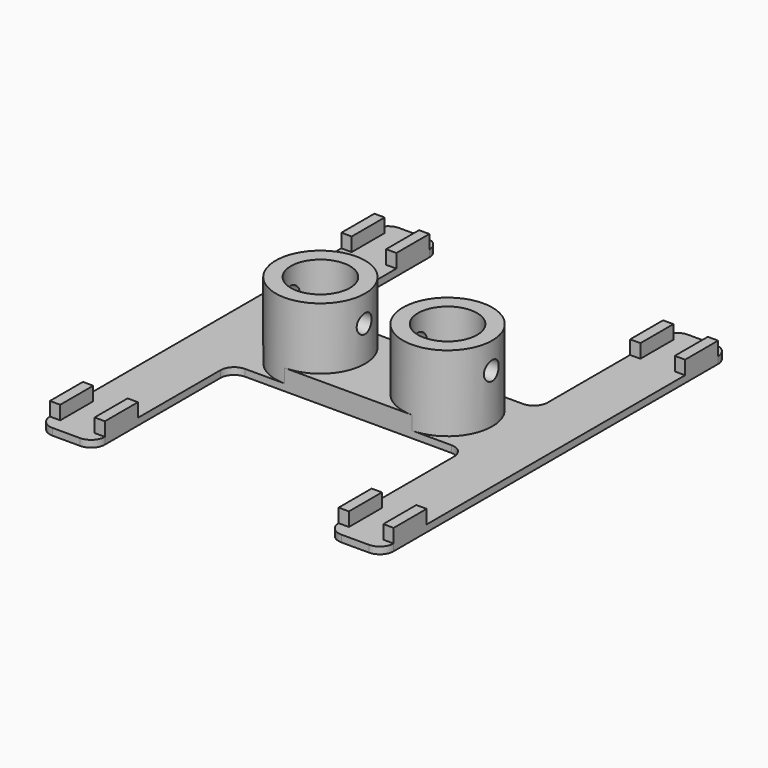
from build123d import *

# Parameters (mm, degrees)
F0_W      = 8
F0_H      = 25
F1_DEPTH  = 1
F2_R      = 6.5
F2_R_2    = 4.3
F3_DEPTH  = 11
F4_R      = 4
F5_R      = 1.35
F6_DEPTH  = 50.001
F7_R      = 2
F8_W      = 1.5
F8_H      = 6
F9_DEPTH  = 2
F11_DEPTH = 2


with BuildPart() as f1:
    # F0 (on Top) → F1 (new body)
    with BuildSketch(Plane.XY):
        with Locations((-4, -12.5)):
            Rectangle(F0_W, F0_H)
        Polygon((-8, 0), (0, 0), (0, 13), (-8, 13), (-42, 13), (-50, 13), (-50, 0), (-42, 0), align=None)
        with Locations((-4, 25.5)):
            Rectangle(F0_W, F0_H)
        with Locations((-46, -12.5)):
            Rectangle(F0_W, F0_H)
        with Locations((-46, 25.5)):
            Rectangle(F0_W, F0_H)
    extrude(amount=F1_DEPTH)

    # F2 (on face) → F3 (join)
    with BuildSketch(Plane.XY.offset(1)):
        with Locations((-34.25, 6.5)):
            Circle(F2_R)
        with Locations((-34.25, 6.5)):
            Circle(F2_R_2, mode=Mode.SUBTRACT)
        with Locations((-15.75, 6.5)):
            Circle(F2_R)
        with Locations((-15.75, 6.5)):
            Circle(F2_R_2, mode=Mode.SUBTRACT)
    extrude(amount=F3_DEPTH)

    # F4
    f4_edges = [f1.edges().sort_by_distance(p)[0] for p in [
        (-38.55, 6.5, 1),
        (-20.05, 6.5, 1),
    ]]
    fillet(f4_edges, radius=F4_R)

    # F5 (on face) → F6 (cut, through all)
    with BuildSketch(Plane.YZ):
        with Locations((6.5, 8.15)):
            Circle(F5_R)
    extrude(amount=-F6_DEPTH, mode=Mode.SUBTRACT)

    # F7
    f7_edges = [f1.edges().sort_by_distance(p)[0] for p in [
        (-42, 38, 0.5),
        (0, 38, 0.5),
        (-8, 38, 0.5),
        (-42, 13, 0.5),
        (-8, 13, 0.5),
        (-8, 0, 0.5),
        (0, -25, 0.5),
        (-8, -25, 0.5),
        (-42, 0, 0.5),
        (-42, -25, 0.5),
        (-50, -25, 0.5),
        (-50, 38, 0.5),
    ]]
    fillet(f7_edges, radius=F7_R)

    # F8 (on face) → F9 (join)
    with BuildSketch(Plane.XY.offset(1)):
        with Locations((-49.25, 33)):
            Rectangle(F8_W, F8_H)
        with Locations((-42.75, 33)):
            Rectangle(F8_W, F8_H)
        with Locations((-42.75, -20)):
            Rectangle(F8_W, F8_H)
        with Locations((-49.25, -20)):
            Rectangle(F8_W, F8_H)
        with Locations((-0.75, 33)):
            Rectangle(F8_W, F8_H)
        with Locations((-7.25, 33)):
            Rectangle(F8_W, F8_H)
        with Locations((-7.25, -20)):
            Rectangle(F8_W, F8_H)
        with Locations((-0.75, -20)):
            Rectangle(F8_W, F8_H)
    extrude(amount=F9_DEPTH)

    # F10 (on face) → F11 (join)
    with BuildSketch(Plane.XY.offset(1)):
        with BuildLine():
            Line((-15.75, 13), (-34.25, 13))
            ThreePointArc((-34.25, 13), (-27.75, 6.5), (-34.25, 0))
            Line((-34.25, 0), (-15.75, 0))
            ThreePointArc((-15.75, 0), (-22.25, 6.5), (-15.75, 13))
        make_face()
    extrude(amount=F11_DEPTH)


solid = f1.part
